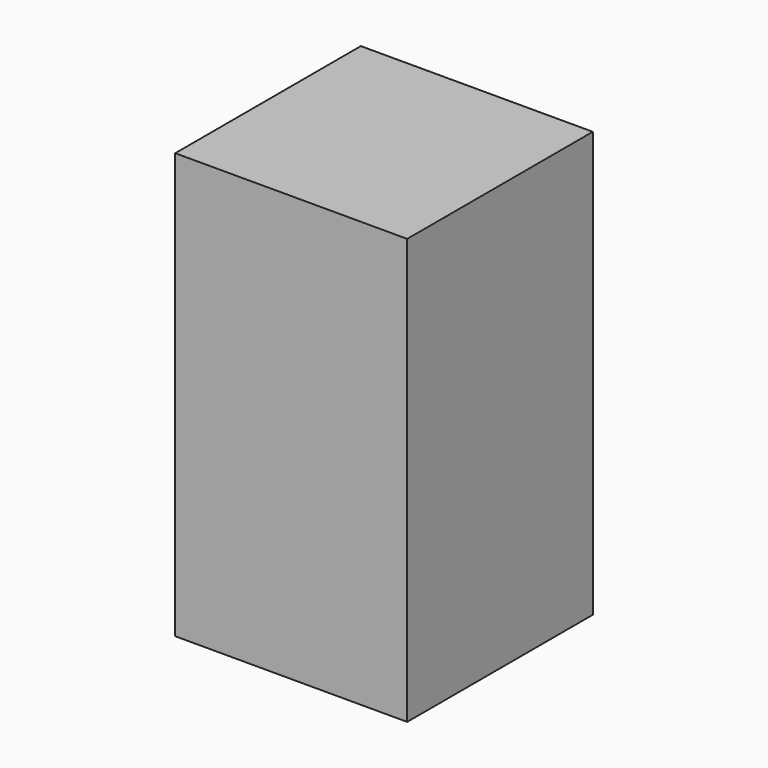
from build123d import *

# Parameters (mm, degrees)
F0_W      = 18
F0_H      = 18
F1_DEPTH  = 25
F1_FACE_W = 18
F1_FACE_H = 18
F2_DEPTH  = 8
F3_W      = 6.5
F3_H      = 13
F4_DEPTH  = 4.1
F5_W      = 15.2
F5_H      = 15.2
F6_DEPTH  = 15
F7_R      = 0.8


with BuildPart() as f1:
    # F0 (on Top) → F1 (new body)
    with BuildSketch(Plane.XY):
        Rectangle(F0_W, F0_H)
    extrude(amount=F1_DEPTH)

    # F1_face (on face) → F2 (join)
    with BuildSketch(Plane.XY.offset(25)):
        Rectangle(F1_FACE_W, F1_FACE_H)
    extrude(amount=F2_DEPTH)

    # F3 (on face) → F4 (cut)
    with BuildSketch(Plane(origin=(-9, 0, 0), x_dir=(0, -1, 0), z_dir=(-1, 0, 0))):
        with Locations((3.25, 24)):
            Rectangle(F3_W, F3_H)
        with Locations((-3.25, 24)):
            Rectangle(F3_W, F3_H)
    extrude(amount=-F4_DEPTH, mode=Mode.SUBTRACT)

    # F5 (on face) → F6 (cut)
    with BuildSketch(Plane(origin=(0, 0, 0), x_dir=(1, 0, 0), z_dir=(0, 0, -1))):
        Rectangle(F5_W, F5_H)
    extrude(amount=-F6_DEPTH, mode=Mode.SUBTRACT)

    # F7
    f7_edges = [f1.edges().sort_by_distance(p)[0] for p in [
        (-6.95, 6.5, 30.5),
        (-6.95, -6.5, 30.5),
        (-6.95, -6.5, 17.5),
        (-6.95, 6.5, 17.5),
    ]]
    fillet(f7_edges, radius=F7_R)


solid = f1.part
